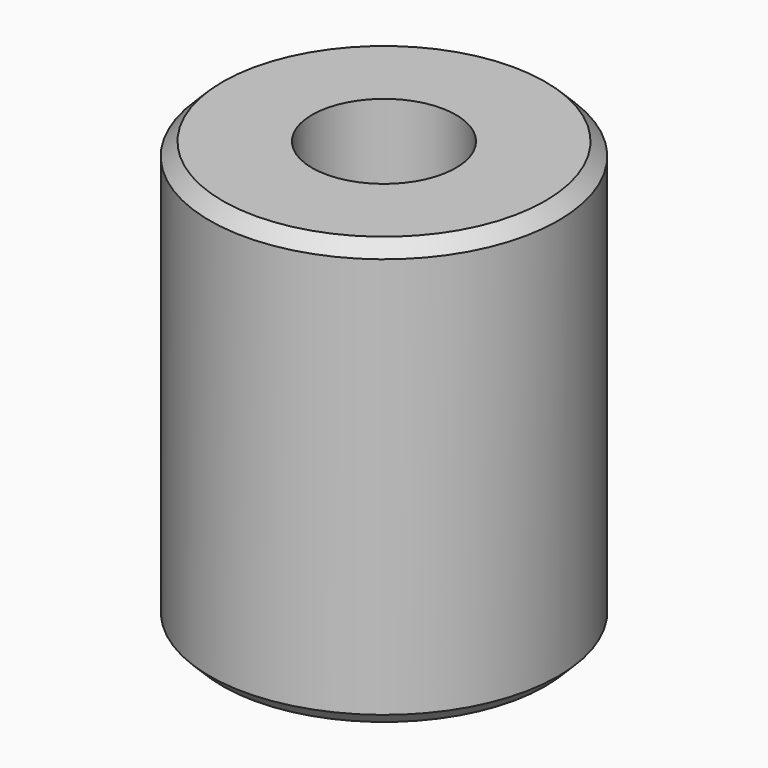
from build123d import *

# Parameters (mm, degrees)
F0_W    = 20
F0_H    = 49
F3_D    = 16.5
F4_SIZE = 1.5


with BuildPart() as f1:
    # F0 (on Front) → F1 (revolve)
    with BuildSketch(Plane.XZ):
        with Locations((10, 24.5)):
            Rectangle(F0_W, F0_H)
    revolve(axis=Axis((0, 0, 21.905942), (0, 0, 1)))

    # F3 (through all)
    with Locations(Plane.XY.offset(49)):
        with Locations((0, 0)):
            Hole(F3_D / 2)

    # F4
    f4_edges = [f1.edges().sort_by_distance(p)[0] for p in [
        (-20, 0, 49),
        (-20, 0, 0),
    ]]
    chamfer(f4_edges, length=F4_SIZE)


solid = f1.part
